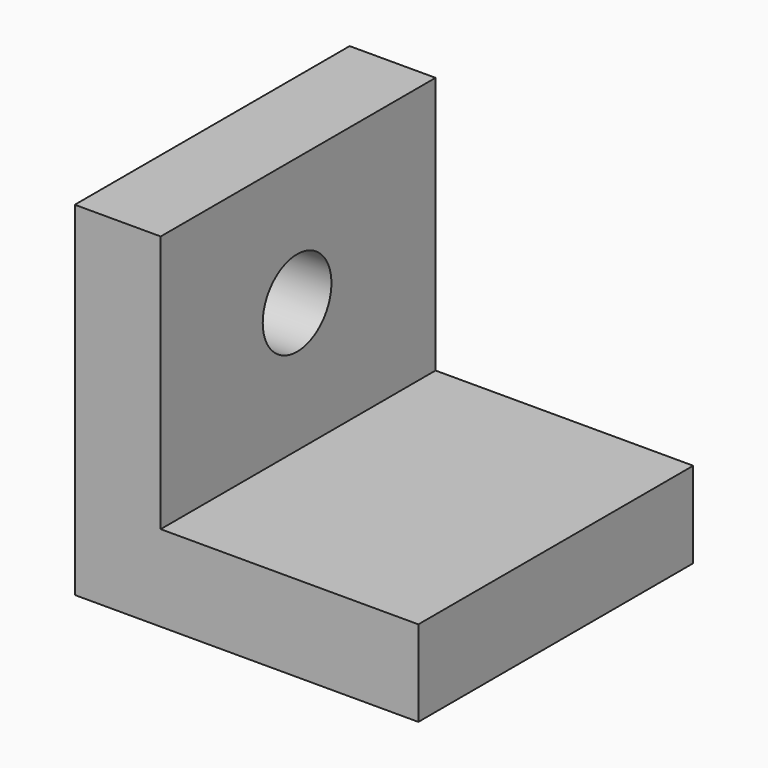
from build123d import *

# Parameters (mm, degrees)
F0_W     = 50.8
F0_H     = 50.8
F1_DEPTH = 12.7
F2_W     = 12.7
F2_H     = 50.8
F3_DEPTH = 50.8
F6_D     = 12.7


with BuildPart() as f1:
    # F0 (on Top) → F1 (new body)
    with BuildSketch(Plane.XY):
        with Locations((25.4, -25.4)):
            Rectangle(F0_W, F0_H)
    extrude(amount=F1_DEPTH)

    # F2 (on Top) → F3 (join)
    with BuildSketch(Plane.XY):
        with Locations((6.35, -25.4)):
            Rectangle(F2_W, F2_H)
    extrude(amount=F3_DEPTH)

    # F6 (through all)
    with Locations(Plane.YZ.offset(12.7)):
        with Locations((-25.588784, 31.895876)):
            Hole(F6_D / 2)


solid = f1.part
